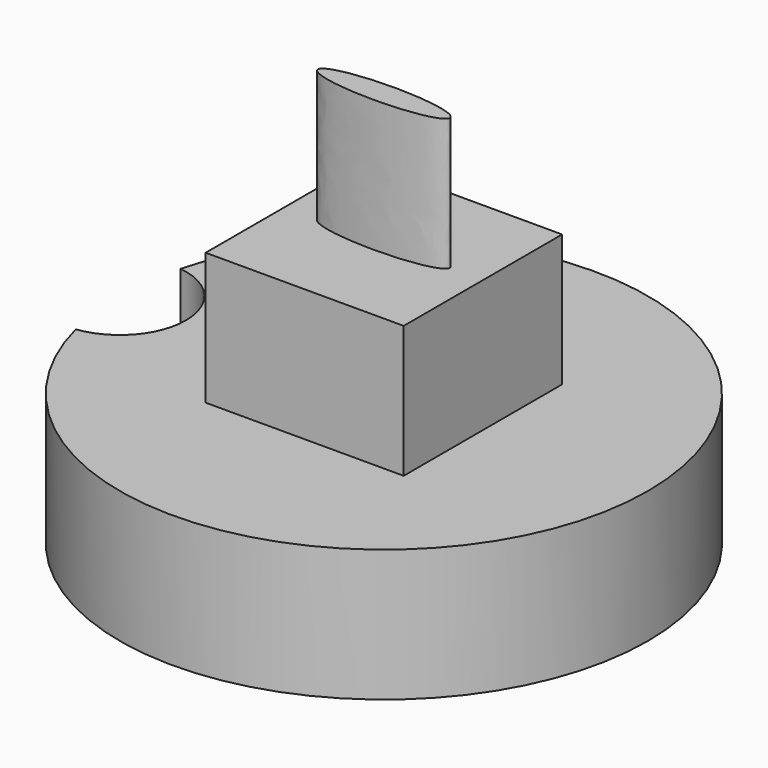
from build123d import *

# Parameters (mm, degrees)
F1_DEPTH = 25.4
F3_DEPTH = 25.4
F5_DEPTH = 25.4
F7_DEPTH = 12.7


with BuildPart() as f1:
    # F0 (on Top) → F1 (new body)
    with BuildSketch(Plane.XY):
        with BuildLine():
            ThreePointArc((-49.2125, 12.600391), (-38.1, 0), (-49.2125, -12.600391))
            ThreePointArc((-49.2125, -12.600391), (50.8, 0), (-49.2125, 12.600391))
        make_face()
    extrude(amount=F1_DEPTH)

    # F2 (on face) → F3 (join)
    with BuildSketch(Plane.XY.offset(25.4)):
        Polygon((0, 0), (-19.05, 19.05), (-19.05, -19.05), align=None)
        Polygon((19.05, 19.05), (-19.05, 19.05), (0, 0), align=None)
        Polygon((19.05, -19.05), (19.05, 19.05), (0, 0), align=None)
        Polygon((0, 0), (-19.05, -19.05), (19.05, -19.05), align=None)
    extrude(amount=F3_DEPTH)

    # F4 (on face) → F5 (join)
    with BuildSketch(Plane.XY.offset(50.8)):
        with BuildLine():
            add(Edge.make_bspline(
                [(-12.7, 0), (-12.7, -4.399409), (6.35, -2.199705), (25.4, 0), (6.35, 2.199705), (-12.7, 4.399409), (-12.7, 0)],
                knots=[0, 0, 0, 2.094395, 2.094395, 4.18879, 4.18879, 6.283185, 6.283185, 6.283185], degree=2, weights=[1, 0.5, 1, 0.5, 1, 0.5, 1]))
        make_face()
    extrude(amount=F5_DEPTH)

    # F6 (on Top) → F7 (cut)
    with BuildSketch(Plane.XY):
        with BuildLine():
            ThreePointArc((16.497784, -9.525), (18.400887, -4.930503), (19.05, 0))
            ThreePointArc((19.05, 0), (18.400887, 4.930503), (16.497784, 9.525))
            ThreePointArc((16.497784, 9.525), (9.525, 16.497784), (0, 19.05))
            ThreePointArc((0, 19.05), (-9.525, 16.497784), (-16.497784, 9.525))
            ThreePointArc((-16.497784, 9.525), (-19.05, 0), (-16.497784, -9.525))
            ThreePointArc((-16.497784, -9.525), (-9.525, -16.497784), (0, -19.05))
            ThreePointArc((0, -19.05), (9.525, -16.497784), (16.497784, -9.525))
        make_face()
        with BuildLine():
            ThreePointArc((16.497784, 9.525), (18.400887, 4.930503), (19.05, 0))
            ThreePointArc((19.05, 0), (18.400887, -4.930503), (16.497784, -9.525))
            Line((16.497784, -9.525), (21.997045, 0))
            Line((21.997045, 0), (16.497784, 9.525))
        make_face()
        with BuildLine():
            ThreePointArc((0, 19.05), (9.525, 16.497784), (16.497784, 9.525))
            Line((16.497784, 9.525), (10.998523, 19.05))
            Line((10.998523, 19.05), (0, 19.05))
        make_face()
        with BuildLine():
            Line((10.998523, -19.05), (16.497784, -9.525))
            ThreePointArc((16.497784, -9.525), (9.525, -16.497784), (0, -19.05))
            Line((0, -19.05), (10.998523, -19.05))
        make_face()
        with BuildLine():
            ThreePointArc((-16.497784, 9.525), (-9.525, 16.497784), (0, 19.05))
            Line((0, 19.05), (-10.998523, 19.05))
            Line((-10.998523, 19.05), (-16.497784, 9.525))
        make_face()
        with BuildLine():
            Line((-10.998523, -19.05), (0, -19.05))
            ThreePointArc((0, -19.05), (-9.525, -16.497784), (-16.497784, -9.525))
            Line((-16.497784, -9.525), (-10.998523, -19.05))
        make_face()
        with BuildLine():
            ThreePointArc((-16.497784, -9.525), (-19.05, 0), (-16.497784, 9.525))
            Line((-16.497784, 9.525), (-21.997045, 0))
            Line((-21.997045, 0), (-16.497784, -9.525))
        make_face()
    extrude(amount=F7_DEPTH, mode=Mode.SUBTRACT)


solid = f1.part
